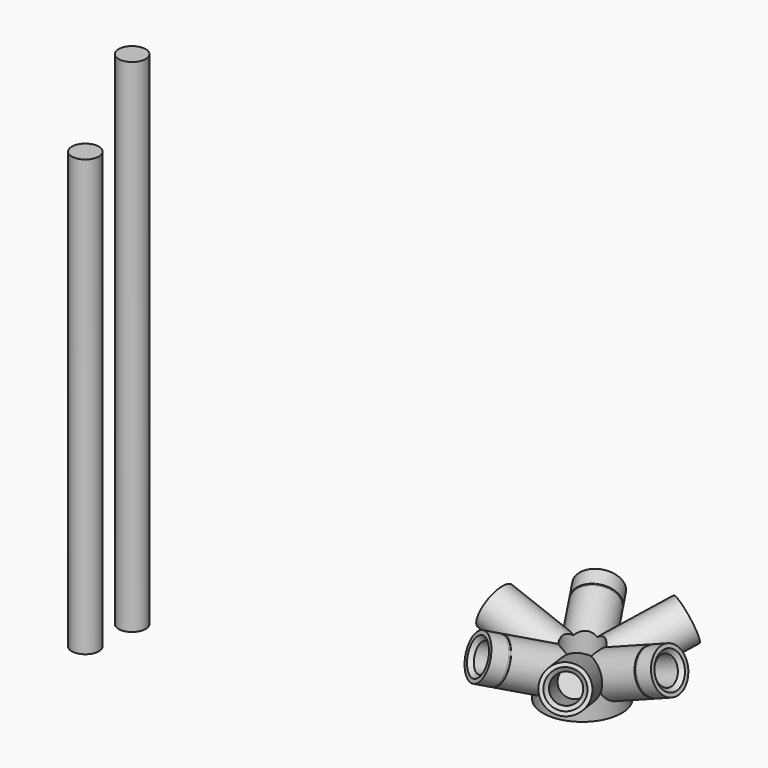
from build123d import *

# Parameters (mm, degrees)
F10_COUNT = 3
F11_COUNT = 3
F14_SIZE  = 0.75
F15_R     = 2.6
F16_DEPTH = 83.8
F17_DEPTH = 96.53
F18_R     = 3.65
F19_DEPTH = 100


with BuildPart() as f8:
    # F6 (on Front) → F8 (revolve)
    with BuildSketch(Plane.XZ):
        Polygon((8.4945331983, 0.4614171025), (7.5667939611, 2.8902645468), (7.5667939611, -1.4986484024), (15.1018859844, 1.3795070547), (15.066203706, 1.4729242641), (15.4398725436, 1.6156533775), (15.475554822, 1.5222361681), (18.2780711039, 2.5927045188), (17.7428369285, 3.9939626598), align=None)
        Polygon((7.5667939611, 2.8902645468), (0, 0), (1.4629734126, -3.8301055852), (7.5667939611, -1.4986484024), align=None)
    revolve(axis=Axis((8.4075488456, 0, 3.211405052), (0.934172094, 0, 0.3568227836)))

    # F7 (on Front) → F9 (revolve)
    with BuildSketch(Plane.XZ):
        Polygon((-7.5667939611, 2.8902645468), (-8.4945331983, 0.4614171025), (-17.7428369285, 3.9939626598), (-18.2780711039, 2.5927045188), (-7.5667939611, -1.4986484024), align=None)
        Polygon((0, 0), (-7.5667939611, 2.8902645468), (-7.5667939611, -1.4986484024), (-1.4629734126, -3.8301055852), align=None)
    revolve(axis=Axis((-8.4075488456, 0, 3.211405052), (-0.934172094, 0, 0.3568227836)))

    # F10: F8 ×3 about axis
    f10_axis = Axis((0, 0, 20.6734314561), (0, 0, 1))


with BuildPart() as f8_1:
    add(f8.part)
    for i in range(1, F10_COUNT):
        add(f8.part.rotate(f10_axis, i * 360 / F10_COUNT))

    # F11: F8 ×3 about axis
    f11_axis = Axis((0, 0, 22.541775644), (0, 0, 1))


with BuildPart() as f8_2:
    add(f8_1.part)
    for i in range(1, F11_COUNT):
        add(f8_1.part.rotate(f11_axis, i * 360 / F11_COUNT))

    # F6 (on Front) → F12 (revolve)
    with BuildSketch(Plane.XZ):
        Polygon((1.4629734126, -3.8301055852), (0, 0), (0, -3.8301055852), align=None)
        Polygon((7.5667939611, 2.8902645468), (0, 0), (1.4629734126, -3.8301055852), (7.5667939611, -1.4986484024), align=None)
        Polygon((7.5667939611, -1.4986484024), (1.4629734126, -3.8301055852), (7.5667939611, -3.8301055852), align=None)
        Polygon((0, 2.8902645468), (0, 0), (7.5667939611, 2.8902645468), align=None)
    revolve(axis=Axis((0, 0, 20.6734314561), (0, 0, 1)))

    # F7 (on Front) → F13 (revolve)
    with BuildSketch(Plane.XZ):
        Polygon((0, 2.8902645468), (-7.5667939611, 2.8902645468), (0, 0), align=None)
        Polygon((0, 0), (-7.5667939611, 2.8902645468), (-7.5667939611, -1.4986484024), (-1.4629734126, -3.8301055852), align=None)
        Polygon((0, -3.8301055852), (0, 0), (-1.4629734126, -3.8301055852), align=None)
        Polygon((-1.4629734126, -3.8301055852), (-7.5667939611, -1.4986484024), (-7.5667939611, -3.8301055852), align=None)
    revolve(axis=Axis((0, 0, 22.541775644), (0, 0, 1)))

    # F14
    f14_edges = [f8_2.edges().sort_by_distance(p)[0] for p in [
        (15.887358, 0, 8.851658),
        (-7.943679, 13.758856, 8.851658),
        (-7.943679, -13.758856, 8.851658),
        (7.943679, 13.758856, 8.851658),
        (-15.887358, 0, 8.851658),
        (7.943679, -13.758856, 8.851658),
    ]]
    chamfer(f14_edges, length=F14_SIZE)

    # F18 (on Top) → F19 (cut, symmetric)
    with BuildSketch(Plane.XY):
        Circle(F18_R)
    extrude(amount=F19_DEPTH, both=True, mode=Mode.SUBTRACT)


with BuildPart() as f16:
    # F15 (on Top) → F16 (new body)
    with BuildSketch(Plane.XY):
        with Locations((-64.3342376699, -39.0859464335)):
            Circle(F15_R)
    extrude(amount=F16_DEPTH)


with BuildPart() as f17:
    # F15 (on Top) → F17 (new body)
    with BuildSketch(Plane.XY):
        with Locations((-63.3807456306, -29.0310044818)):
            Circle(F15_R)
    extrude(amount=F17_DEPTH)


solid = Compound([f8_2.part, f16.part, f17.part])
